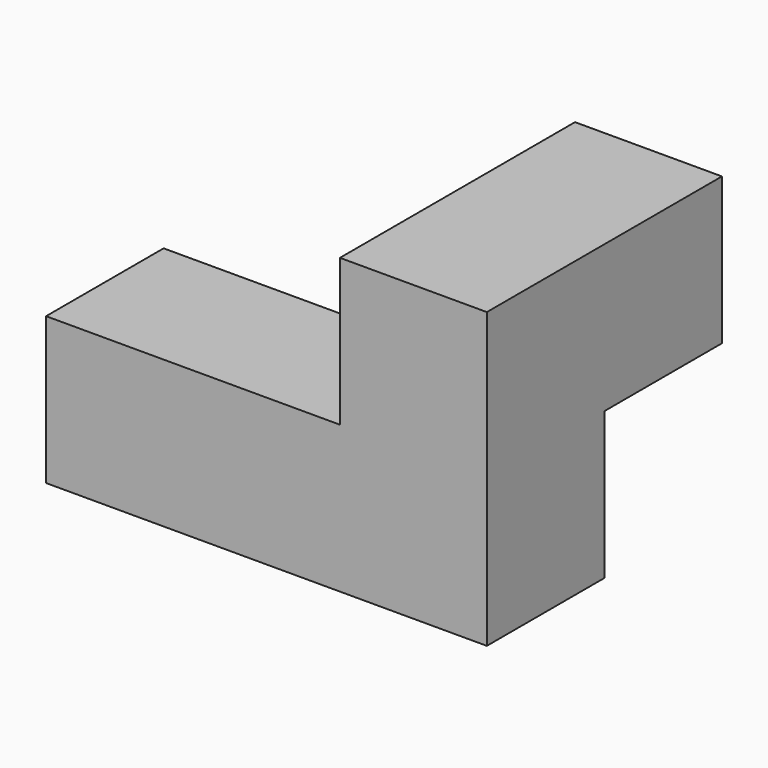
from build123d import *

# Parameters (mm, degrees)
F0_W     = 38.1
F0_H     = 19.05
F0_W_2   = 19.05
F1_DEPTH = 19.05
F2_DEPTH = 38.1
F4_W     = 19.05
F4_H     = 19.05
F5_DEPTH = 19.05


with BuildPart() as f1:
    # F0 (on Top) → F1 (new body)
    with BuildSketch(Plane.XY):
        with Locations((-38.1, 27.1682710141)):
            Rectangle(F0_W, F0_H)
        with Locations((-9.525, 27.1682710141)):
            Rectangle(F0_W_2, F0_H)
    extrude(amount=F1_DEPTH)

    # F0 (on Top) → F2 (join)
    with BuildSketch(Plane.XY):
        with Locations((-9.525, 27.1682710141)):
            Rectangle(F0_W_2, F0_H)
    extrude(amount=F2_DEPTH)

    # F4 (on face) → F5 (join)
    with BuildSketch(Plane(origin=(0, 36.6932710141, 0), x_dir=(-1, 0, 0), z_dir=(0, 1, 0))):
        with Locations((9.525, 28.575)):
            Rectangle(F4_W, F4_H)
    extrude(amount=F5_DEPTH)


solid = f1.part
